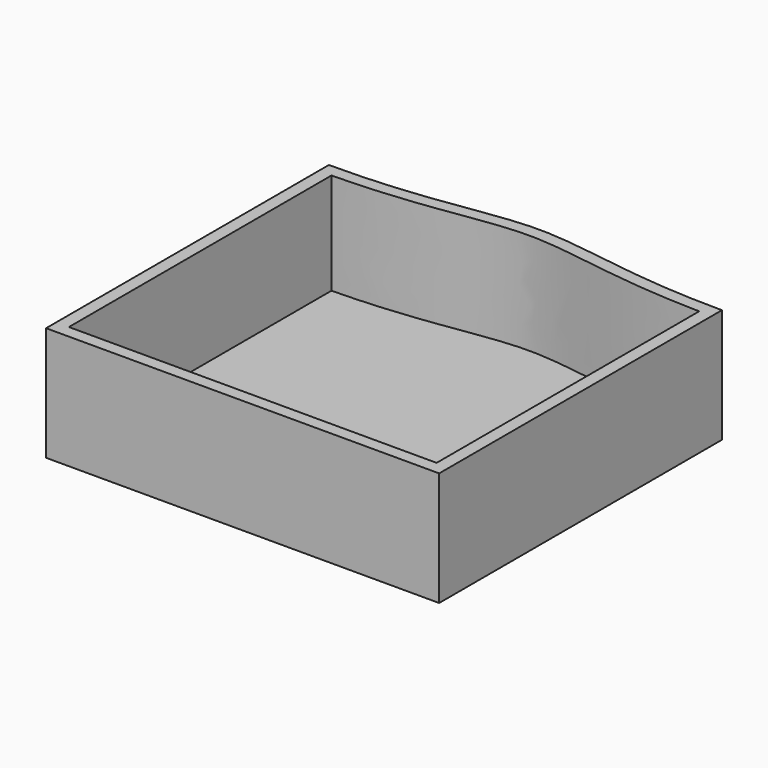
from build123d import *

# Parameters (mm, degrees)
F3_DEPTH = 36
F4_T     = -4


with BuildPart() as f3:
    # F2 (on Top) → F3 (new body)
    with BuildSketch(Plane.XY):
        with BuildLine():
            add(Edge.make_bspline(
                [(0, 111.5), (31, 111.5), (62, 122.4592611451), (93, 111.5), (124, 111.5)],
                knots=[0, 0, 0, 0, 0.5, 1, 1, 1, 1], degree=3))
            Line((0, 111.5), (0, 0))
            Line((0, 0), (124, 0))
            Line((124, 0), (124, 111.5))
        make_face()
    extrude(amount=F3_DEPTH)

    # F4
    f4_openings = [f3.faces().sort_by_distance(p)[0] for p in [
        (62, 56.93045, 36),
    ]]
    offset(amount=F4_T, openings=f4_openings, kind=Kind.INTERSECTION)


solid = f3.part
